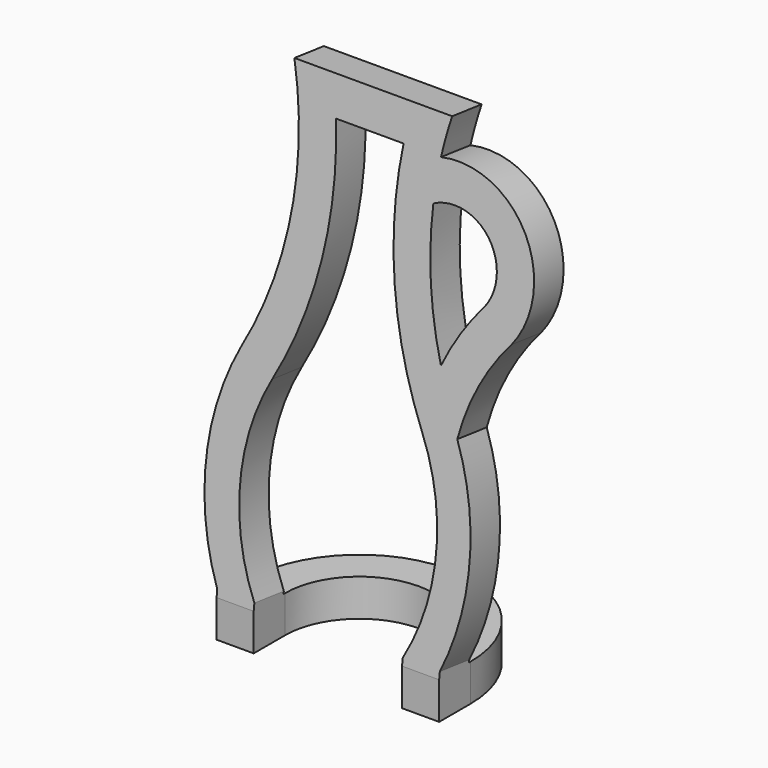
from build123d import *

# Parameters (mm, degrees)
F4_DEPTH = 25.4
F6_DEPTH = 25.4


with BuildPart() as f4:
    # F3 (on offset) → F4 (new body)
    with BuildSketch(Plane.XY):
        with BuildLine():
            Line((-76.2, 26.9875), (-76.2, 0))
            Line((-76.2, 0), (-50.8, 0))
            Line((-50.8, 0), (-50.8, 26.9875))
            ThreePointArc((-50.8, 26.9875), (0, 77.7875), (50.8, 26.9875))
            Line((50.8, 26.9875), (50.8, 0))
            Line((50.8, 0), (76.2, 0))
            Line((76.2, 0), (76.2, 26.9875))
            ThreePointArc((76.2, 26.9875), (0, 103.1875), (-76.2, 26.9875))
        make_face()
    extrude(amount=-F4_DEPTH)

    # F5 (on line) → F6 (join)
    with BuildSketch(Plane(origin=(0, 0, 0), x_dir=(-1, 0, 0), z_dir=(0, 0.9925461516, -0.1218693434))):
        with BuildLine():
            ThreePointArc((-75.0903723478, 138.827645489), (-90.0403532632, 71.9142183688), (-76.2, 4.7625))
            Line((-76.2, 4.7625), (-76.2, 0))
            Line((-76.2, 0), (-50.8, 0))
            Line((-50.8, 0), (-50.8, 4.7625))
            ThreePointArc((-50.8, 4.7625), (-67.3023617732, 70.0071639204), (-51.3841879778, 135.3968103272))
            ThreePointArc((-51.3841879778, 135.3968103272), (-25.0859353678, 212.368668197), (-23.2117561056, 293.6875002493))
            Line((-23.2117561056, 293.6875002493), (0, 293.6875002493))
            Line((0, 293.6875002493), (23.1415493167, 293.6875002493))
            ThreePointArc((23.1415493167, 293.6875002493), (24.7523028396, 211.7684987185), (51.1552849917, 134.2043325579))
            ThreePointArc((51.1552849917, 134.2043325579), (66.8742650231, 69.439784083), (50.8, 4.7625))
            Line((50.8, 4.7625), (50.8, 0))
            Line((50.8, 0), (76.2, 0))
            Line((76.2, 0), (76.2, 4.7625))
            ThreePointArc((76.2, 4.7625), (90.7935935425, 75.6597014149), (73.6577047551, 145.9857098073))
            ThreePointArc((73.6577047551, 145.9857098073), (47.6694306232, 230.702066542), (54.0150973414, 319.0874952316))
            Line((54.0150973414, 319.0874952316), (0, 319.0874952316))
            Line((0, 319.0874952316), (-54.0150973414, 319.0874952316))
            ThreePointArc((-54.0150973414, 319.0874952316), (-51.0804025225, 306.5319685143), (-48.8205663921, 293.8376065574))
            ThreePointArc((-48.8205663921, 293.8376065574), (-108.938602772, 268.4421399471), (-106.0506710111, 203.2442268465))
            ThreePointArc((-106.0506710111, 203.2442268465), (-86.3813942483, 173.049340693), (-75.0903723478, 138.827645489))
        make_face()
        with BuildLine():
            ThreePointArc((-46.2746955842, 266.2427872527), (-48.9959426673, 220.834025793), (-60.1912430767, 176.7429149913))
            ThreePointArc((-60.1912430767, 176.7429149913), (-71.5917023099, 198.9100774911), (-86.1994937771, 219.1082455385))
            ThreePointArc((-86.1994937771, 219.1082455385), (-84.8490348444, 258.4405568096), (-46.2746955842, 266.2427872527))
        make_face(mode=Mode.SUBTRACT)
    extrude(amount=F6_DEPTH)


solid = f4.part
